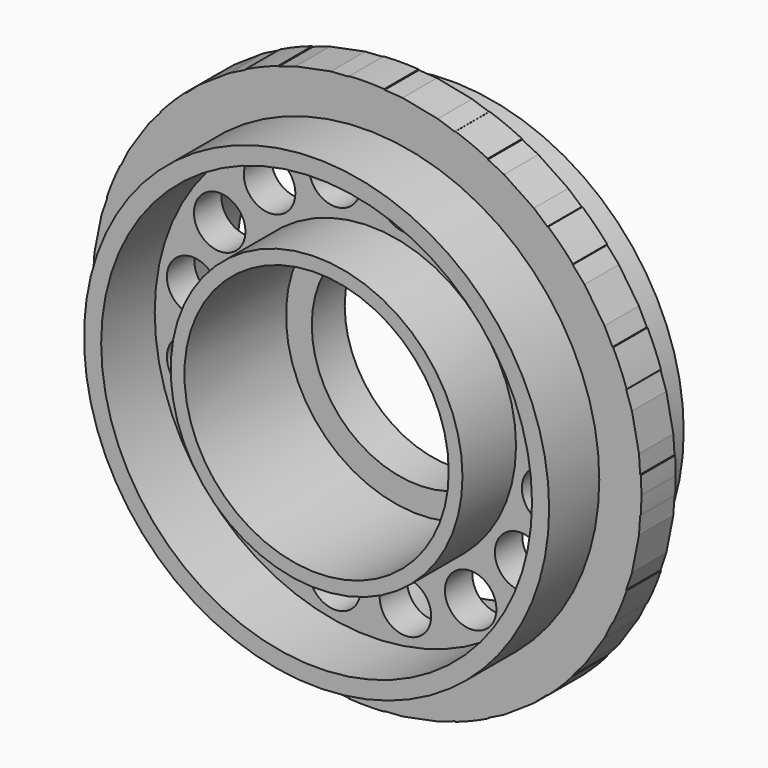
from build123d import *

# Parameters (mm, degrees)
F0_R     = 13.55
F1_DEPTH = 1.25
F0_R_2   = 12.55
F2_DEPTH = 4.9
F0_R_3   = 1.5
F0_R_4   = 8.5
F3_DEPTH = 1
F0_R_5   = 7.7
F4_DEPTH = 4.9
F5_R     = 7.7
F5_R_2   = 6.2
F6_DEPTH = 2.4


with BuildPart() as f1:
    # F0 (on Front) → F1 (new body, symmetric)
    with BuildSketch(Plane.XZ):
        with BuildLine():
            Line((4.1411047216, 15.4548132206), (2.0884190755, 15.863117782))
            Line((2.0884190755, 15.863117782), (1.0442095378, 15.931558891))
            Line((1.0442095378, 15.931558891), (1.021095107, 15.9673844064))
            ThreePointArc((1.021095107, 15.9673844064), (0, 16), (-1.021095107, 15.9673844064))
            Line((-1.021095107, 15.9673844064), (-1.0442095378, 15.931558891))
            Line((-1.0442095378, 15.931558891), (-2.0884190755, 15.863117782))
            Line((-2.0884190755, 15.863117782), (-4.1411047216, 15.4548132206))
            Line((-4.1411047216, 15.4548132206), (-5.1320198197, 15.1184428704))
            Line((-5.1320198197, 15.1184428704), (-5.1670846004, 15.1426958212))
            ThreePointArc((-5.1670846004, 15.1426958212), (-6.1229349178, 14.7820725202), (-7.0538223407, 14.3611834605))
            Line((-7.0538223407, 14.3611834605), (-7.0614674589, 14.3192394904))
            Line((-7.0614674589, 14.3192394904), (-8, 13.8564064606))
            Line((-8, 13.8564064606), (-9.7401828641, 12.6936534447))
            Line((-9.7401828641, 12.6936534447), (-10.5269456816, 12.0036809718))
            Line((-10.5269456816, 12.0036809718), (-10.5686225172, 12.012669066))
            ThreePointArc((-10.5686225172, 12.012669066), (-11.313708499, 11.313708499), (-12.012669066, 10.5686225172))
            Line((-12.012669066, 10.5686225172), (-12.0036809718, 10.5269456816))
            Line((-12.0036809718, 10.5269456816), (-12.6936534447, 9.7401828641))
            Line((-12.6936534447, 9.7401828641), (-13.8564064606, 8))
            Line((-13.8564064606, 8), (-14.3192394904, 7.0614674589))
            Line((-14.3192394904, 7.0614674589), (-14.3611834605, 7.0538223407))
            ThreePointArc((-14.3611834605, 7.0538223407), (-14.7820725202, 6.1229349178), (-15.1426958212, 5.1670846004))
            Line((-15.1426958212, 5.1670846004), (-15.1184428704, 5.1320198197))
            Line((-15.1184428704, 5.1320198197), (-15.4548132206, 4.1411047216))
            Line((-15.4548132206, 4.1411047216), (-15.863117782, 2.0884190755))
            Line((-15.863117782, 2.0884190755), (-15.931558891, 1.0442095378))
            Line((-15.931558891, 1.0442095378), (-15.9673844064, 1.021095107))
            ThreePointArc((-15.9673844064, 1.021095107), (-16, 0), (-15.9673844064, -1.021095107))
            Line((-15.9673844064, -1.021095107), (-15.931558891, -1.0442095378))
            Line((-15.931558891, -1.0442095378), (-15.863117782, -2.0884190755))
            Line((-15.863117782, -2.0884190755), (-15.4548132206, -4.1411047216))
            Line((-15.4548132206, -4.1411047216), (-15.1184428704, -5.1320198197))
            Line((-15.1184428704, -5.1320198197), (-15.1426958212, -5.1670846004))
            ThreePointArc((-15.1426958212, -5.1670846004), (-14.7820725202, -6.1229349178), (-14.3611834605, -7.0538223407))
            Line((-14.3611834605, -7.0538223407), (-14.3192394904, -7.0614674589))
            Line((-14.3192394904, -7.0614674589), (-13.8564064606, -8))
            Line((-13.8564064606, -8), (-12.6936534447, -9.7401828641))
            Line((-12.6936534447, -9.7401828641), (-12.0036809718, -10.5269456816))
            Line((-12.0036809718, -10.5269456816), (-12.012669066, -10.5686225172))
            ThreePointArc((-12.012669066, -10.5686225172), (-11.313708499, -11.313708499), (-10.5686225172, -12.012669066))
            Line((-10.5686225172, -12.012669066), (-10.5269456816, -12.0036809718))
            Line((-10.5269456816, -12.0036809718), (-9.7401828641, -12.6936534447))
            Line((-9.7401828641, -12.6936534447), (-8, -13.8564064606))
            Line((-8, -13.8564064606), (-7.0614674589, -14.3192394904))
            Line((-7.0614674589, -14.3192394904), (-7.0538223407, -14.3611834605))
            ThreePointArc((-7.0538223407, -14.3611834605), (-6.1229349178, -14.7820725202), (-5.1670846004, -15.1426958212))
            Line((-5.1670846004, -15.1426958212), (-5.1320198197, -15.1184428704))
            Line((-5.1320198197, -15.1184428704), (-4.1411047216, -15.4548132206))
            Line((-4.1411047216, -15.4548132206), (-2.0884190755, -15.863117782))
            Line((-2.0884190755, -15.863117782), (-1.0442095378, -15.931558891))
            Line((-1.0442095378, -15.931558891), (-1.021095107, -15.9673844064))
            ThreePointArc((-1.021095107, -15.9673844064), (0, -16), (1.021095107, -15.9673844064))
            Line((1.021095107, -15.9673844064), (1.0442095378, -15.931558891))
            Line((1.0442095378, -15.931558891), (2.0884190755, -15.863117782))
            Line((2.0884190755, -15.863117782), (4.1411047216, -15.4548132206))
            Line((4.1411047216, -15.4548132206), (5.1320198197, -15.1184428704))
            Line((5.1320198197, -15.1184428704), (5.1670846004, -15.1426958212))
            ThreePointArc((5.1670846004, -15.1426958212), (6.1229349178, -14.7820725202), (7.0538223407, -14.3611834605))
            Line((7.0538223407, -14.3611834605), (7.0614674589, -14.3192394904))
            Line((7.0614674589, -14.3192394904), (8, -13.8564064606))
            Line((8, -13.8564064606), (9.7401828641, -12.6936534447))
            Line((9.7401828641, -12.6936534447), (10.5269456816, -12.0036809718))
            Line((10.5269456816, -12.0036809718), (10.5686225172, -12.012669066))
            ThreePointArc((10.5686225172, -12.012669066), (11.313708499, -11.313708499), (12.012669066, -10.5686225172))
            Line((12.012669066, -10.5686225172), (12.0036809718, -10.5269456816))
            Line((12.0036809718, -10.5269456816), (12.6936534447, -9.7401828641))
            Line((12.6936534447, -9.7401828641), (13.8564064606, -8))
            Line((13.8564064606, -8), (14.3192394904, -7.0614674589))
            Line((14.3192394904, -7.0614674589), (14.3611834605, -7.0538223407))
            ThreePointArc((14.3611834605, -7.0538223407), (14.7820725202, -6.1229349178), (15.1426958212, -5.1670846004))
            Line((15.1426958212, -5.1670846004), (15.1184428704, -5.1320198197))
            Line((15.1184428704, -5.1320198197), (15.4548132206, -4.1411047216))
            Line((15.4548132206, -4.1411047216), (15.863117782, -2.0884190755))
            Line((15.863117782, -2.0884190755), (15.931558891, -1.0442095378))
            Line((15.931558891, -1.0442095378), (15.9673844064, -1.021095107))
            ThreePointArc((15.9673844064, -1.021095107), (15.9918440229, -0.5108079371), (16, 0))
            ThreePointArc((16, 0), (15.9918440229, 0.5108079371), (15.9673844064, 1.021095107))
            Line((15.9673844064, 1.021095107), (15.931558891, 1.0442095378))
            Line((15.931558891, 1.0442095378), (15.863117782, 2.0884190755))
            Line((15.863117782, 2.0884190755), (15.4548132206, 4.1411047216))
            Line((15.4548132206, 4.1411047216), (15.1184428704, 5.1320198197))
            Line((15.1184428704, 5.1320198197), (15.1426958212, 5.1670846004))
            ThreePointArc((15.1426958212, 5.1670846004), (14.7820725202, 6.1229349178), (14.3611834605, 7.0538223407))
            Line((14.3611834605, 7.0538223407), (14.3192394904, 7.0614674589))
            Line((14.3192394904, 7.0614674589), (13.8564064606, 8))
            Line((13.8564064606, 8), (12.6936534447, 9.7401828641))
            Line((12.6936534447, 9.7401828641), (12.0036809718, 10.5269456816))
            Line((12.0036809718, 10.5269456816), (12.012669066, 10.5686225172))
            ThreePointArc((12.012669066, 10.5686225172), (11.313708499, 11.313708499), (10.5686225172, 12.012669066))
            Line((10.5686225172, 12.012669066), (10.5269456816, 12.0036809718))
            Line((10.5269456816, 12.0036809718), (9.7401828641, 12.6936534447))
            Line((9.7401828641, 12.6936534447), (8, 13.8564064606))
            Line((8, 13.8564064606), (7.0614674589, 14.3192394904))
            Line((7.0614674589, 14.3192394904), (7.0538223407, 14.3611834605))
            ThreePointArc((7.0538223407, 14.3611834605), (6.1229349178, 14.7820725202), (5.1670846004, 15.1426958212))
            Line((5.1670846004, 15.1426958212), (5.1320198197, 15.1184428704))
            Line((5.1320198197, 15.1184428704), (4.1411047216, 15.4548132206))
        make_face()
        Circle(F0_R, mode=Mode.SUBTRACT)
    extrude(amount=F1_DEPTH, both=True)

    # F0 (on Front) → F2 (join, symmetric)
    with BuildSketch(Plane.XZ):
        Circle(F0_R)
        Circle(F0_R_2, mode=Mode.SUBTRACT)
    extrude(amount=F2_DEPTH, both=True)

    # F0 (on Front) → F3 (join, symmetric)
    with BuildSketch(Plane.XZ):
        Circle(F0_R_2)
        with Locations((-2.056837265, -10.3404192113)):
            Circle(F0_R_3, mode=Mode.SUBTRACT)
        with Locations((-10.3404192113, -2.056837265)):
            Circle(F0_R_3, mode=Mode.SUBTRACT)
        with Locations((-5.8573769667, -8.7661841225)):
            Circle(F0_R_3, mode=Mode.SUBTRACT)
        with Locations((-8.7661841225, -5.8573769667)):
            Circle(F0_R_3, mode=Mode.SUBTRACT)
        with Locations((2.056837265, -10.3404192113)):
            Circle(F0_R_3, mode=Mode.SUBTRACT)
        with Locations((5.8573769667, -8.7661841225)):
            Circle(F0_R_3, mode=Mode.SUBTRACT)
        with Locations((8.7661841225, -5.8573769667)):
            Circle(F0_R_3, mode=Mode.SUBTRACT)
        with Locations((10.3404192113, -2.056837265)):
            Circle(F0_R_3, mode=Mode.SUBTRACT)
        with Locations((-10.3404192113, 2.056837265)):
            Circle(F0_R_3, mode=Mode.SUBTRACT)
        with Locations((-8.7661841225, 5.8573769667)):
            Circle(F0_R_3, mode=Mode.SUBTRACT)
        with Locations((-5.8573769667, 8.7661841225)):
            Circle(F0_R_3, mode=Mode.SUBTRACT)
        with Locations((-2.056837265, 10.3404192113)):
            Circle(F0_R_3, mode=Mode.SUBTRACT)
        Circle(F0_R_4, mode=Mode.SUBTRACT)
        with Locations((8.7661841225, 5.8573769667)):
            Circle(F0_R_3, mode=Mode.SUBTRACT)
        with Locations((5.8573769667, 8.7661841225)):
            Circle(F0_R_3, mode=Mode.SUBTRACT)
        with Locations((10.3404192113, 2.056837265)):
            Circle(F0_R_3, mode=Mode.SUBTRACT)
        with Locations((2.056837265, 10.3404192113)):
            Circle(F0_R_3, mode=Mode.SUBTRACT)
    extrude(amount=F3_DEPTH, both=True)

    # F0 (on Front) → F4 (join, symmetric)
    with BuildSketch(Plane.XZ):
        Circle(F0_R_4)
        Circle(F0_R_5, mode=Mode.SUBTRACT)
    extrude(amount=F4_DEPTH, both=True)

    # F5 (on face) → F6 (join)
    with BuildSketch(Plane(origin=(0, 4.9, 0), x_dir=(-1, 0, 0), z_dir=(0, 1, 0))):
        Circle(F5_R)
        Circle(F5_R_2, mode=Mode.SUBTRACT)
    extrude(amount=-F6_DEPTH)


solid = f1.part
